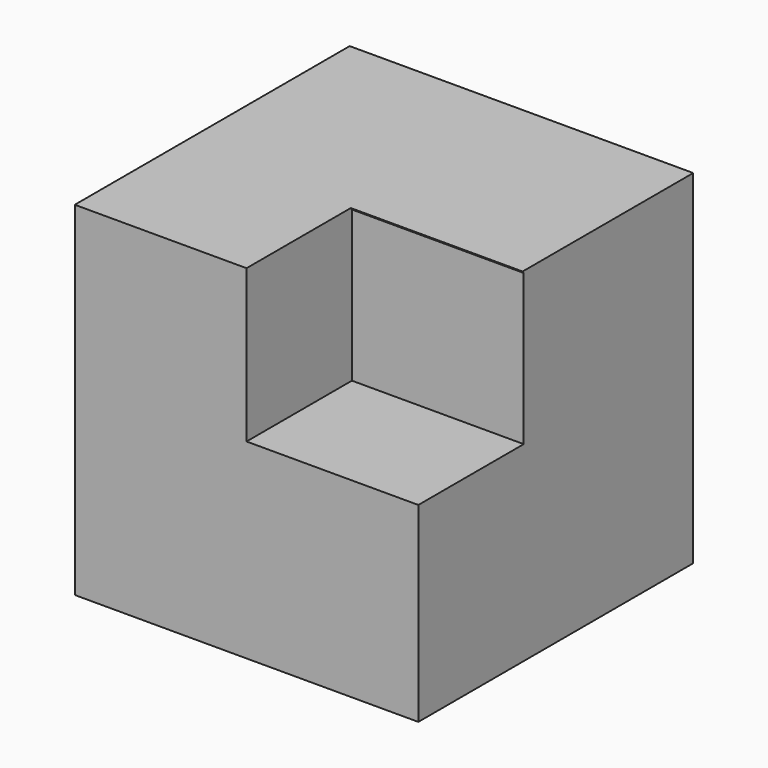
from build123d import *

# Parameters (mm, degrees)
F0_W     = 50.793938
F0_H     = 50.793935
F1_DEPTH = 50.8
F3_DEPTH = 25.4


with BuildPart() as f1:
    # F0 (on Front) → F1 (new body)
    with BuildSketch(Plane.XZ):
        with Locations((-25.396969, 25.396967)):
            Rectangle(F0_W, F0_H)
    extrude(amount=F1_DEPTH)

    # F2 (on Right) → F3 (cut)
    with BuildSketch(Plane.YZ):
        Polygon((-31.325877, 50.512649), (-52.65988, 79.119146), (-72.913677, 79.119146), (-72.913677, 55.439733), (-51.039577, 28.238516), (-31.325877, 28.238516), align=None)
    extrude(amount=-F3_DEPTH, mode=Mode.SUBTRACT)


solid = f1.part
